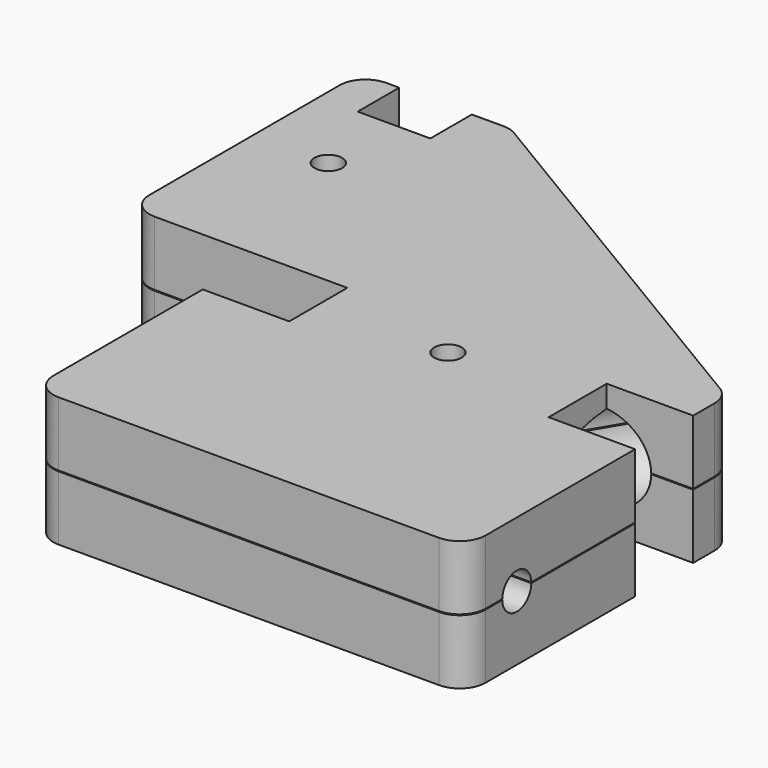
from build123d import *

# Parameters (mm, degrees)
F0_R     = 1.6
F1_DEPTH = 15
F2_R     = 6
F2_R_2   = 2.1
F3_DEPTH = 35
F4_DEPTH = 60
F6_DEPTH = 41
F7_W     = 45
F7_H     = 0.1
F7_W_2   = 27.5
F7_W_3   = 17.5
F8_DEPTH = 70


with BuildPart() as f1:
    # F0 (on Top) → F1 (new body)
    with BuildSketch(Plane.XY):
        with BuildLine():
            Line((30, 0), (40, 0))
            Line((40, 0), (40, 3.1002119088))
            ThreePointArc((40, 3.1002119088), (39.6101456364, 4.5791100651), (38.5419068287, 5.6736382884))
            Line((38.5419068287, 5.6736382884), (-7.1880530866, 33.0734263797))
            ThreePointArc((-7.1880530866, 33.0734263797), (-7.930047151, 33.3913905944), (-8.7299599153, 33.5))
            Line((-8.7299599153, 33.5), (-12.4, 33.5))
            Line((-12.4, 33.5), (-12.4, 27.5))
            Line((-12.4, 27.5), (-20.8, 27.5))
            Line((-20.8, 27.5), (-20.8, 33.5))
            Line((-20.8, 33.5), (-22.3, 33.5))
            ThreePointArc((-22.3, 33.5), (-24.4213203436, 32.6213203436), (-25.3, 30.5))
            Line((-25.3, 30.5), (-25.3, 3))
            ThreePointArc((-25.3, 3), (-24.4213203436, 0.8786796564), (-22.3, 0))
            Line((-22.3, 0), (0, 0))
            Line((0, 0), (0, -8.4))
            Line((0, -8.4), (-10, -8.4))
            Line((-10, -8.4), (-10, -30))
            ThreePointArc((-10, -30), (-9.1213203436, -32.1213203436), (-7, -33))
            Line((-7, -33), (37, -33))
            ThreePointArc((37, -33), (39.1213203436, -32.1213203436), (40, -30))
            Line((40, -30), (40, -8.4))
            Line((40, -8.4), (30, -8.4))
            Line((30, -8.4), (30, 0))
        make_face()
        with Locations((15, -4.2)):
            Circle(F0_R, mode=Mode.SUBTRACT)
        with Locations((-16.6, 18)):
            Circle(F0_R, mode=Mode.SUBTRACT)
    extrude(amount=-F1_DEPTH)

    # F2 (on face) → F3 (cut)
    with BuildSketch(Plane(origin=(-10, 0, 0), x_dir=(0, -1, 0), z_dir=(-1, 0, 0))):
        with Locations((25.5, -7.5)):
            Circle(F2_R)
        with Locations((25.5, -7.5)):
            Circle(F2_R_2, mode=Mode.SUBTRACT)
    extrude(amount=-F3_DEPTH, mode=Mode.SUBTRACT)

    # F2 (on face) → F4 (cut)
    with BuildSketch(Plane(origin=(-10, 0, 0), x_dir=(0, -1, 0), z_dir=(-1, 0, 0))):
        with Locations((25.5, -7.5)):
            Circle(F2_R_2)
    extrude(amount=-F4_DEPTH, mode=Mode.SUBTRACT)

    # F5 (on face) → F6 (cut)
    with BuildSketch(Plane(origin=(12.6828209487, 21.1674955903, 0), x_dir=(-0.8578087932, 0.5139689429, 0), z_dir=(0.5139689429, 0.8578087932, 0))):
        with BuildLine():
            ThreePointArc((-30.1455127116, -7.5), (-25.1455127116, -12.5), (-20.1455127116, -7.5))
            ThreePointArc((-20.1455127116, -7.5), (-25.1455127116, -2.5), (-30.1455127116, -7.5))
        make_face()
    extrude(amount=-F6_DEPTH, mode=Mode.SUBTRACT)

    # F7 (on face) → F8 (cut)
    with BuildSketch(Plane(origin=(-25.3, 0, 0), x_dir=(0, -1, 0), z_dir=(-1, 0, 0))):
        with Locations((19.5, -7.5)):
            Rectangle(F7_W, F7_H)
        with Locations((-16.75, -7.5)):
            Rectangle(F7_W_2, F7_H)
        with Locations((-39.25, -7.5)):
            Rectangle(F7_W_3, F7_H)
    extrude(amount=-F8_DEPTH, mode=Mode.SUBTRACT)


solid = f1.part
